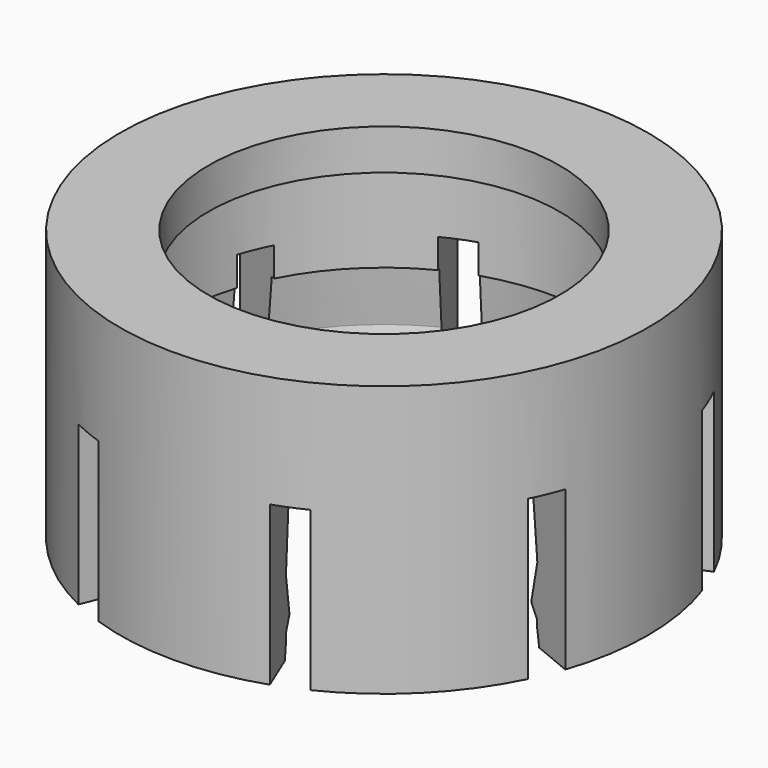
from build123d import *

# Parameters (mm, degrees)
SKETCH073_W             = 2.501097
SKETCH073_H             = 5.003426
POCKET017_DEPTH         = 0.5
POLARPATTERN_COUNT      = 8
BODY016_PLACEMENT_ANGLE = 22.5


with BuildPart() as part:
    # Sketch072 → Revolution005 (revolve)
    with BuildSketch(Plane.XZ):
        Polygon((5.321734, 8.4), (5.321734, 7.168998), (6.315841, 7.168998), (6.315841, 4.11532), (6.434004, 4.11532), (6.633604, 2.430329), (6.336122, 1.240818), (6.621345, 0.904052), (6.621345, 0.689515), (6.725548, 0.193016), (8, 0.193016), (8, 8.4), align=None)
    revolve(axis=Axis((0, 0, 0), (0, 0, 1)))

    # Sketch073 → Pocket017 (cut, symmetric)
    with BuildSketch(Plane.XZ):
        with Locations((7.439441, 2.501713)):
            Rectangle(SKETCH073_W, SKETCH073_H)
    pocket017 = extrude(amount=POCKET017_DEPTH, both=True, mode=Mode.SUBTRACT)

    # PolarPattern: Pocket017 ×8 about axis
    polarpattern_axis = Axis((0, 0, 0), (0, 0, 1))
    for i in range(1, POLARPATTERN_COUNT):
        add(pocket017.rotate(polarpattern_axis, i * 360 / POLARPATTERN_COUNT), mode=Mode.SUBTRACT)


with BuildPart() as part_1:
    # Body016 placement: moved
    add(part.part.moved(Location((-88, 12, 4))).rotate(Axis((-88, 12, 4), (0, 0, -1)), BODY016_PLACEMENT_ANGLE))


solid = part_1.part
